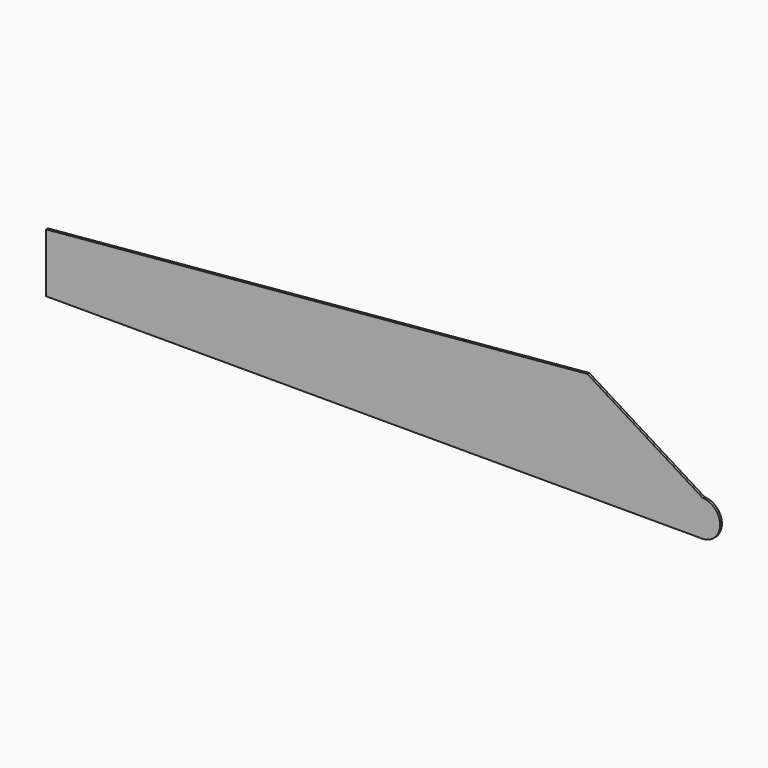
from build123d import *

# Parameters (mm, degrees)
F1_DEPTH = 0.5


with BuildPart() as f1:
    # F0 (on Front) → F1 (new body)
    with BuildSketch(Plane.XZ):
        with BuildLine():
            ThreePointArc((73.980978, 0), (74.14326, -0.003314), (74.305542, 0))
            Line((74.305542, 0), (73.980978, 0))
        make_face()
        with BuildLine():
            Line((73.980978, 0), (74.305542, 0))
            ThreePointArc((74.305542, 0), (77.011037, 1.219003), (78.118579, 3.972005))
            ThreePointArc((78.118579, 3.972005), (77.011037, 6.725007), (74.305542, 7.944011))
            ThreePointArc((74.305542, 7.944011), (70.171255, 4.134287), (73.980978, 0))
        make_face()
        with BuildLine():
            Line((-70.694458, 0), (73.980978, 0))
            ThreePointArc((73.980978, 0), (70.171255, 4.134287), (74.305542, 7.944011))
            Line((74.305542, 7.944011), (48.821039, 23.772469))
            Line((48.821039, 23.772469), (-70.694458, 13))
            Line((-70.694458, 13), (-70.694458, 0))
        make_face()
    extrude(amount=F1_DEPTH)


solid = f1.part
